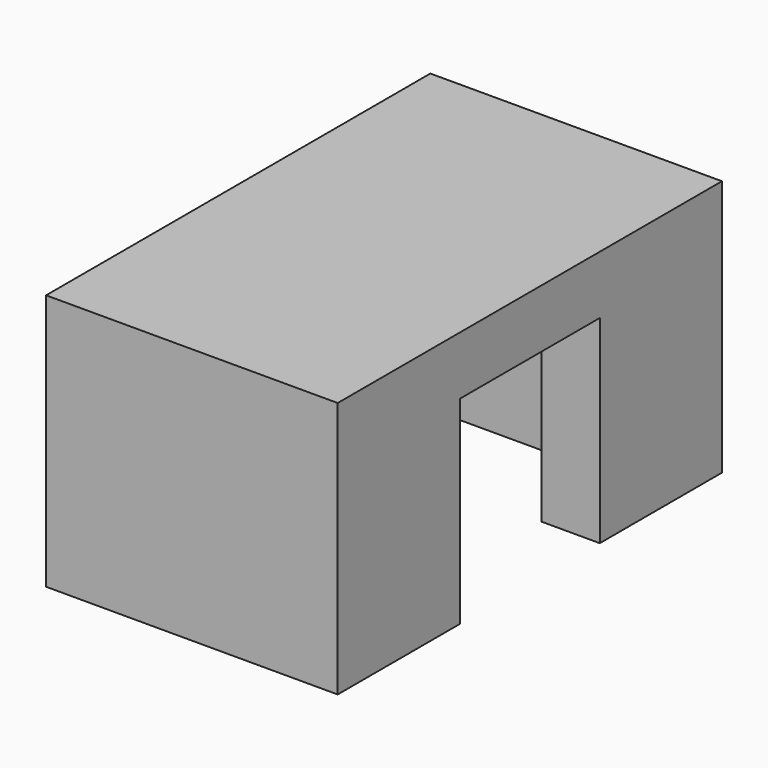
from build123d import *

# Parameters (mm, degrees)
F1_DEPTH = 6.8
F3_DEPTH = 2


with BuildPart() as f1:
    # F0 (on Top) → F1 (new body)
    with BuildSketch(Plane.XY):
        Polygon((-5, 5.236), (-5, 0), (-3, 0), (-3, 3.236), (0, 3.236), (3, 3.236), (3, 0), (5, 0), (5, 5.236), (0, 5.236), align=None)
    extrude(amount=F1_DEPTH)



with BuildPart() as f1b:
    # F0 (on Top) → F1, piece 2 (new body)
    with BuildSketch(Plane.XY):
        Polygon((-3, -6), (-5, -6), (-5, -11.236), (0, -11.236), (5, -11.236), (5, -6), (3, -6), (3, -9.236), (0, -9.236), (-3, -9.236), align=None)
    extrude(amount=F1_DEPTH)


with BuildPart() as f1_1:
    add(f1.part)

    add(f1b.part)  # F3 merges F1b
    # F2 (on face) → F3 (join)
    with BuildSketch(Plane.XY.offset(6.8)):
        Polygon((-3, 0), (-5, 0), (-5, -11.236), (5, -11.236), (5, 0), (3, 0), (3, 3.236), (-3, 3.236), align=None)
        Polygon((5, 5.236), (-5, 5.236), (-5, 0), (-3, 0), (-3, 3.236), (3, 3.236), (3, 0), (5, 0), align=None)
    extrude(amount=F3_DEPTH)


solid = f1_1.part
